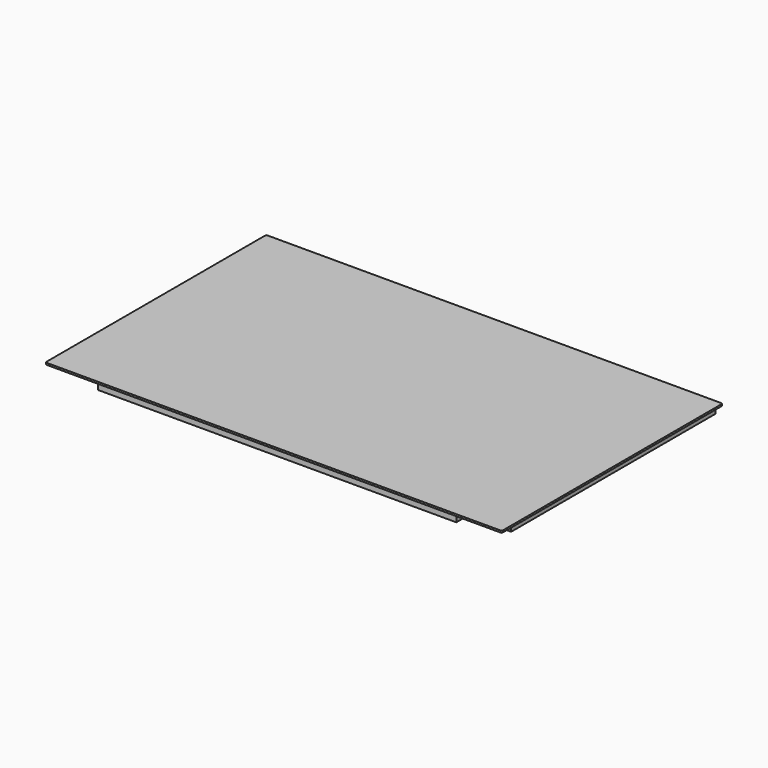
from build123d import *

# Parameters (mm, degrees)
PAD002_DEPTH = 1.5
PAD003_DEPTH = 6.5
SKETCH005_W  = 200
SKETCH005_H  = 50
PAD005_DEPTH = 19


with BuildPart() as part:
    # Sketch002 → Pad002 (new body)
    with BuildSketch(Plane.XY):
        with BuildLine():
            Line((1, 0), (366.9, 0))
            ThreePointArc((366.9, 0), (367.607107, 0.292893), (367.9, 1))
            Line((367.9, 1), (367.9, 221.4))
            ThreePointArc((367.9, 221.4), (367.607107, 222.107107), (366.9, 222.4))
            Line((366.9, 222.4), (1, 222.4))
            ThreePointArc((1, 222.4), (0.292893, 222.107107), (0, 221.4))
            Line((0, 221.4), (0, 1))
            ThreePointArc((0, 1), (0.292893, 0.292893), (1, 0))
        make_face()
    extrude(amount=-PAD002_DEPTH)

    # Sketch003 → Pad003 (join)
    with BuildSketch(Plane.XY):
        Polygon((6.5, 12.5), (6.5, 218.4), (365.4, 218.4), (365.4, 12.5), (330.4, 12.5), (330.4, 1), (41.5, 1), (41.5, 12.5), align=None)
    extrude(amount=-PAD003_DEPTH)

    # Sketch005 → Pad005 (join)
    with BuildSketch(Plane.XY):
        with Locations((117, 68)):
            Rectangle(SKETCH005_W, SKETCH005_H)
    extrude(amount=-PAD005_DEPTH)


solid = part.part
